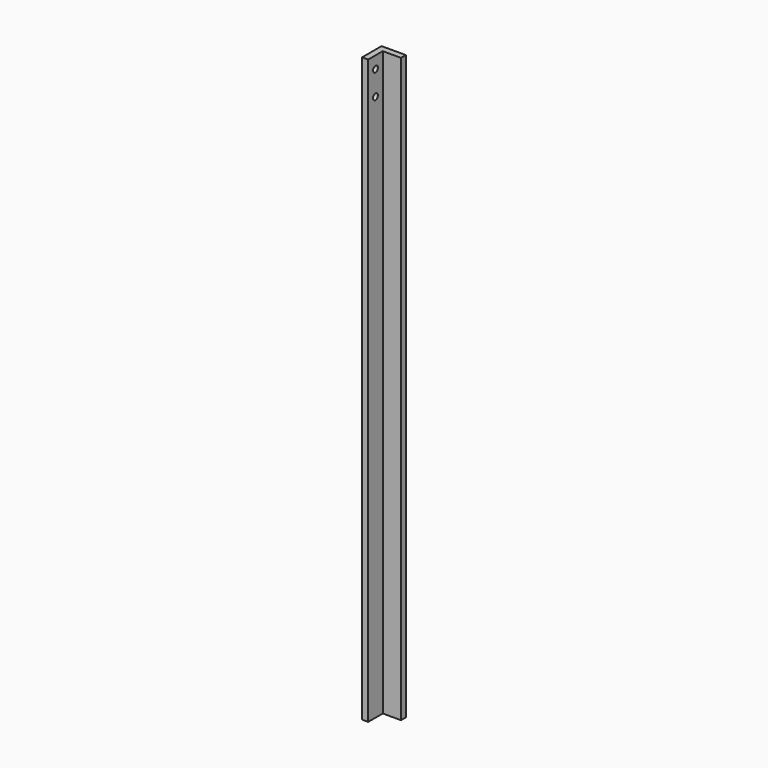
from build123d import *

# Parameters (mm, degrees)
F1_DEPTH = 609.6
F2_R     = 3.175
F3_DEPTH = 25.4


with BuildPart() as f1:
    # F0 (on Top) → F1 (new body)
    with BuildSketch(Plane.XY):
        Polygon((0, 25.4), (0, 0), (6.35, 0), (6.35, 19.05), (25.4, 19.05), (25.4, 25.4), align=None)
    extrude(amount=F1_DEPTH)

    # F2 (on face) → F3 (cut)
    with BuildSketch(Plane.YZ.offset(6.35)):
        with Locations((9.525, 596.9)):
            Circle(F2_R)
        with Locations((9.525, 571.5)):
            Circle(F2_R)
    extrude(amount=-F3_DEPTH, mode=Mode.SUBTRACT)


solid = f1.part
